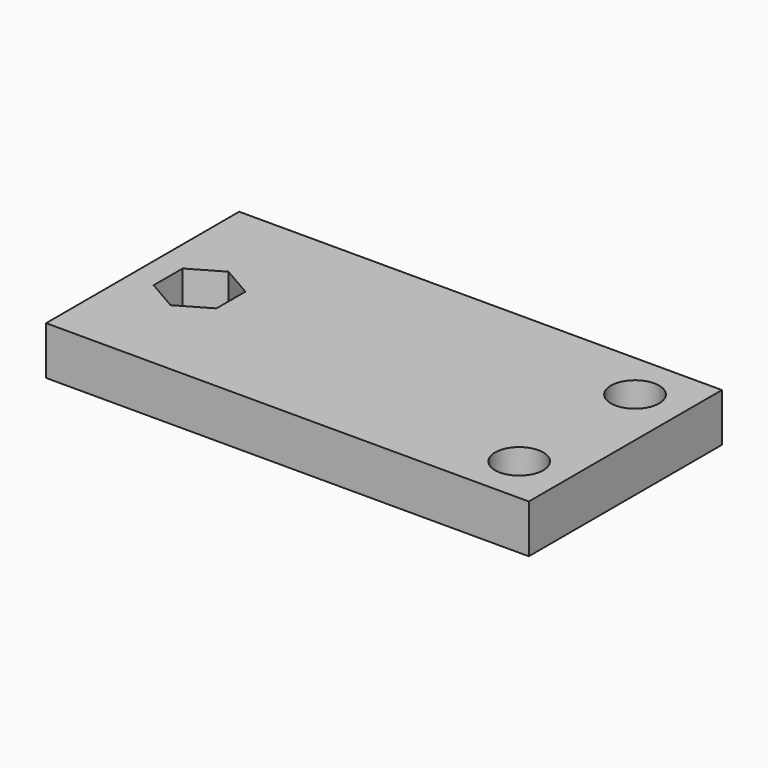
from build123d import *

# Parameters (mm, degrees)
F0_W     = 100
F0_H     = 50
F0_R     = 5
F1_DEPTH = 10


with BuildPart() as f1:
    # F0 (on Top) → F1 (new body)
    with BuildSketch(Plane.XY):
        Rectangle(F0_W, F0_H)
        with Locations((40, -15)):
            Circle(F0_R, mode=Mode.SUBTRACT)
        Polygon((-31.711863, 3.752777), (-31.711863, -3.752777), (-38.211863, -7.505553), (-44.711863, -3.752777), (-44.711863, 3.752777), (-38.211863, 7.505553), align=None, mode=Mode.SUBTRACT)
        with Locations((40, 15)):
            Circle(F0_R, mode=Mode.SUBTRACT)
    extrude(amount=F1_DEPTH)


solid = f1.part
